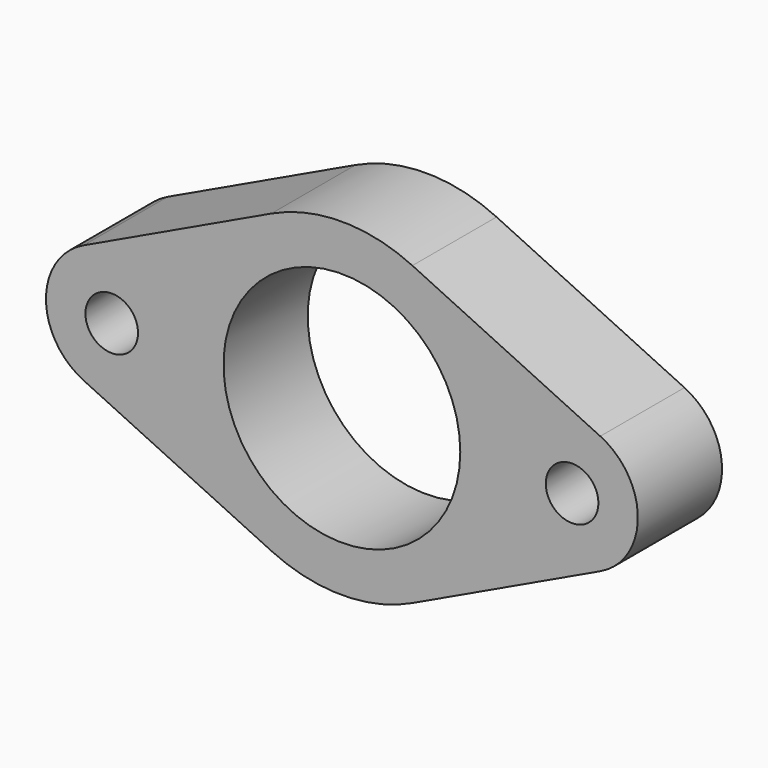
from build123d import *

# Parameters (mm, degrees)
F0_R     = 18
F1_DEPTH = 16
F2_D     = 8


with BuildPart() as f1:
    # F0 (on Front) → F1 (new body)
    with BuildSketch(Plane.XZ):
        with BuildLine():
            Line((-39.285714, -9.035079), (-10.714286, -22.587698))
            ThreePointArc((-10.714286, -22.587698), (0, -25), (10.714286, -22.587698))
            Line((10.714286, -22.587698), (39.285714, -9.035079))
            ThreePointArc((39.285714, -9.035079), (45, 0), (39.285714, 9.035079))
            Line((39.285714, 9.035079), (10.714286, 22.587698))
            ThreePointArc((10.714286, 22.587698), (0, 25), (-10.714286, 22.587698))
            Line((-10.714286, 22.587698), (-39.285714, 9.035079))
            ThreePointArc((-39.285714, 9.035079), (-45, 0), (-39.285714, -9.035079))
        make_face()
        Circle(F0_R, mode=Mode.SUBTRACT)
    extrude(amount=F1_DEPTH)

    # F2 (through all)
    with Locations(Plane(origin=(0, 0, 0), x_dir=(1, 0, 0), z_dir=(0, 1, 0))):
        with Locations((35, 0), (-35, 0)):
            Hole(F2_D / 2)


solid = f1.part
